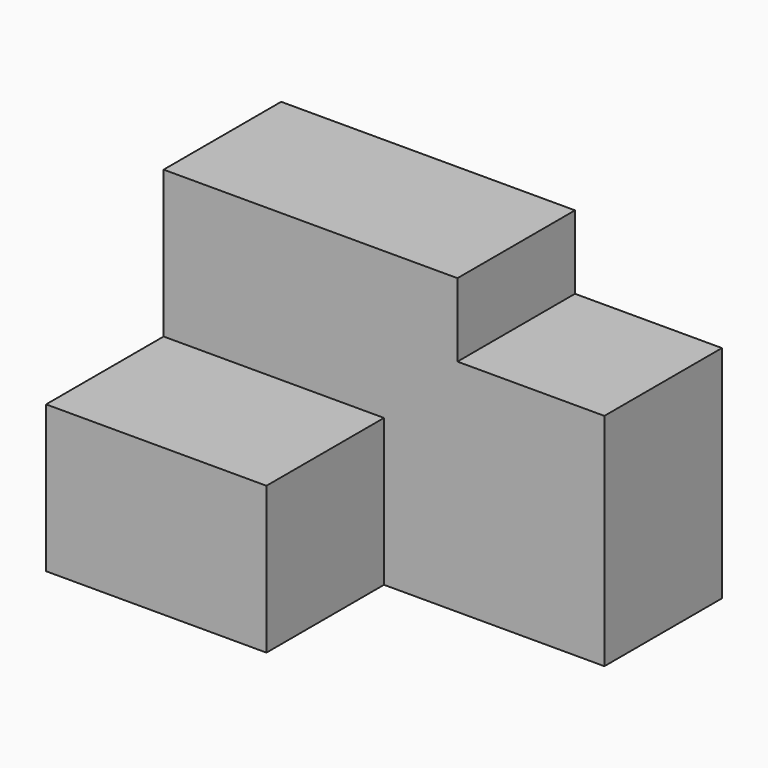
from build123d import *

# Parameters (mm, degrees)
F0_W     = 76.2
F0_H     = 50.8
F1_DEPTH = 25.4
F2_W     = 25.4
F2_H     = 25.4
F3_DEPTH = 12.7
F4_W     = 38.1
F4_H     = 25.4
F5_DEPTH = 25.4


with BuildPart() as f1:
    # F0 (on Front) → F1 (new body)
    with BuildSketch(Plane.XZ):
        with Locations((6.038904, -6.95207)):
            Rectangle(F0_W, F0_H)
    extrude(amount=F1_DEPTH)

    # F2 (on face) → F3 (cut)
    with BuildSketch(Plane.XY.offset(18.44793)):
        with Locations((31.438904, -12.7)):
            Rectangle(F2_W, F2_H)
    extrude(amount=-F3_DEPTH, mode=Mode.SUBTRACT)

    # F4 (on face) → F5 (join)
    with BuildSketch(Plane.XZ.offset(25.4)):
        with Locations((-13.011096, -19.65207)):
            Rectangle(F4_W, F4_H)
    extrude(amount=F5_DEPTH)


solid = f1.part
